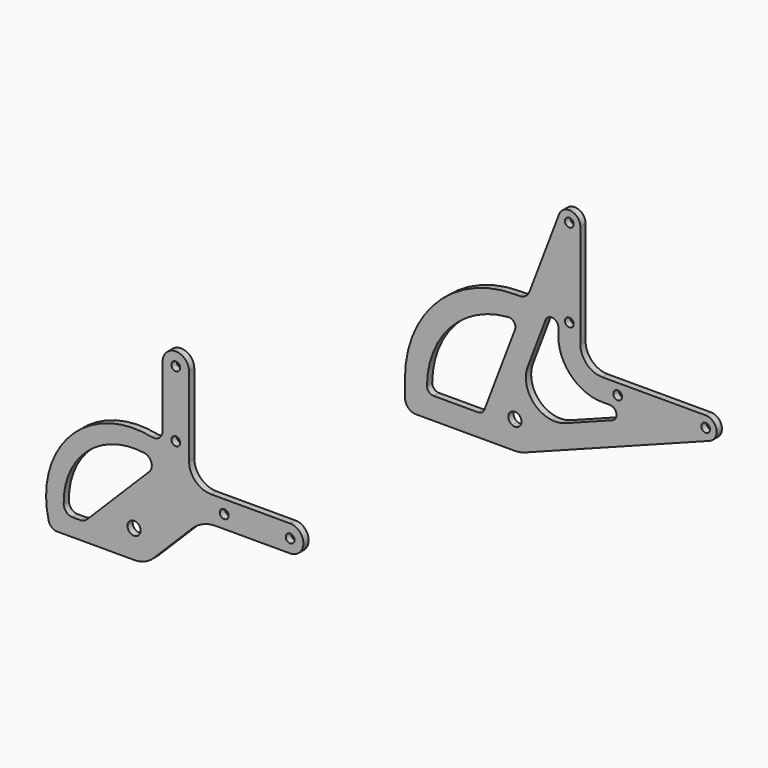
from build123d import *

# Parameters (mm, degrees)
F0_R     = 2
F1_DEPTH = 3
F2_R     = 3
F2_R_2   = 2
F3_DEPTH = 3


with BuildPart() as f1:
    # F0 (on Front) → F1 (new body)
    with BuildSketch(Plane.XZ):
        with BuildLine():
            Line((1.9775541105, 50), (0, 50))
            ThreePointArc((0, 50), (-35.3553390593, 35.3553390593), (-50, 0))
            Line((-50, 0), (-50, -7.7))
            ThreePointArc((-50, -7.7), (-48.5355339059, -11.2355339059), (-45, -12.7))
            Line((-45, -12.7), (0, -12.7))
            ThreePointArc((0, -12.7), (2.2947246058, -12.490966295), (4.5139098752, -11.8707462966))
            Line((4.5139098752, -11.8707462966), (88.5258672136, 20.0752151775))
            ThreePointArc((88.5258672136, 20.0752151775), (91.6664406073, 25.6521722257), (86.7487373415, 29.7487373415))
            Line((86.7487373415, 29.7487373415), (39.7487373415, 29.7487373415))
            ThreePointArc((39.7487373415, 29.7487373415), (32.6776695297, 32.6776695297), (29.7487373415, 39.7487373415))
            Line((29.7487373415, 39.7487373415), (29.7487373415, 86.7487373415))
            ThreePointArc((29.7487373415, 86.7487373415), (25.6521722257, 91.6664406073), (20.0752151775, 88.5258672136))
            Line((20.0752151775, 88.5258672136), (6.6510762745, 53.2228701279))
            ThreePointArc((6.6510762745, 53.2228701279), (4.8160705046, 50.88383374), (1.9775541105, 50))
        make_face()
        with BuildLine():
            ThreePointArc((-1.3076696831, -2.7), (-1.5932656638, 2.5419489618), (3, 0))
            ThreePointArc((3, 0), (1.5932656638, -2.5419489618), (-1.3076696831, -2.7))
        make_face(mode=Mode.SUBTRACT)
        with BuildLine():
            Line((-16.6826770692, -2.7), (-36.9987837638, -2.7))
            ThreePointArc((-36.9987837638, -2.7), (-39.1286866927, -1.8127028929), (-39.99868515, 0.3243243243))
            ThreePointArc((-39.99868515, 0.3243243243), (-29.2121630402, 27.3248884813), (-2.9910381263, 39.8880143768))
            ThreePointArc((-2.9910381263, 39.8880143768), (-0.3624601289, 38.690732466), (0.0374030316, 35.8301353753))
            Line((0.0374030316, 35.8301353753), (-13.8785637708, -0.7662779233))
            ThreePointArc((-13.8785637708, -0.7662779233), (-14.9795672328, -2.169699756), (-16.6826770692, -2.7))
        make_face(mode=Mode.SUBTRACT)
        with BuildLine():
            Line((44.2682950578, 13.9446240431), (23.0257917018, 5.8670572857))
            ThreePointArc((23.0257917018, 5.8670572857), (8.8941060522, 8.8941060522), (5.8670572857, 23.0257917018))
            Line((5.8670572857, 23.0257917018), (13.9446240431, 44.2682950578))
            ThreePointArc((13.9446240431, 44.2682950578), (17.290798272, 46.152639094), (19.7487373415, 43.2020171345))
            Line((19.7487373415, 43.2020171345), (19.7487373415, 39.7487373415))
            ThreePointArc((19.7487373415, 39.7487373415), (25.6066017178, 25.6066017178), (39.7487373415, 19.7487373415))
            Line((39.7487373415, 19.7487373415), (43.2020171345, 19.7487373415))
            ThreePointArc((43.2020171345, 19.7487373415), (46.152639094, 17.290798272), (44.2682950578, 13.9446240431))
        make_face(mode=Mode.SUBTRACT)
        with Locations((46.7487373415, 24.7487373415)):
            Circle(F0_R, mode=Mode.SUBTRACT)
        with Locations((86.7487373415, 24.7487373415)):
            Circle(F0_R, mode=Mode.SUBTRACT)
        with Locations((24.7487373415, 46.7487373415)):
            Circle(F0_R, mode=Mode.SUBTRACT)
        with Locations((24.7487373415, 86.7487373415)):
            Circle(F0_R, mode=Mode.SUBTRACT)
    extrude(amount=F1_DEPTH)


with BuildPart() as f3:
    # F2 (on Front) → F3 (new body)
    with BuildSketch(Plane.XZ):
        with BuildLine():
            ThreePointArc((-160.2050807569, -56.9302890653), (-161.6824558613, -60.0345383524), (-165.0232625751, -60.8457173321))
            ThreePointArc((-165.0232625751, -60.8457173321), (-202.0227771946, -72.2594093065), (-212.0194538106, -109.6666666667))
            ThreePointArc((-212.0194538106, -109.6666666667), (-210.6010769322, -111.8517191076), (-208.1380165053, -112.7))
            Line((-208.1380165053, -112.7), (-173.2050807569, -112.7))
            ThreePointArc((-173.2050807569, -112.7), (-168.3450011659, -111.7332700629), (-164.2248246358, -108.9802561211))
            Line((-164.2248246358, -108.9802561211), (-146.637966797, -91.3933982822))
            ThreePointArc((-146.637966797, -91.3933982822), (-141.7716165646, -88.1418070123), (-136.0313650792, -87))
            Line((-136.0313650792, -87), (-102.2050807569, -87))
            ThreePointArc((-102.2050807569, -87), (-96.2050807569, -81), (-102.2050807569, -75))
            Line((-102.2050807569, -75), (-138.2050807569, -75))
            ThreePointArc((-138.2050807569, -75), (-145.2761485688, -72.0710678119), (-148.2050807569, -65))
            Line((-148.2050807569, -65), (-148.2050807569, -29))
            ThreePointArc((-148.2050807569, -29), (-154.2050807569, -23), (-160.2050807569, -29))
            Line((-160.2050807569, -29), (-160.2050807569, -56.9302890653))
        make_face()
        with Locations((-173.2050807569, -100)):
            Circle(F2_R, mode=Mode.SUBTRACT)
        with BuildLine():
            ThreePointArc((-168.5384569133, -68.342100166), (-165.3242423655, -71.0428859963), (-166.293357769, -75.12776477))
            Line((-166.293357769, -75.12776477), (-194.6940201238, -103.5284271247))
            ThreePointArc((-194.6940201238, -103.5284271247), (-195.9917135191, -104.39551813), (-197.5224472485, -104.7))
            Line((-197.5224472485, -104.7), (-201.1963293893, -104.7))
            ThreePointArc((-201.1963293893, -104.7), (-203.989177398, -103.5635642127), (-205.1950791939, -100.8))
            ThreePointArc((-205.1950791939, -100.8), (-194.4187677349, -76.0421310464), (-168.5384569133, -68.342100166))
        make_face(mode=Mode.SUBTRACT)
        with Locations((-132.2050807569, -81)):
            Circle(F2_R_2, mode=Mode.SUBTRACT)
        with Locations((-102.2050807569, -81)):
            Circle(F2_R_2, mode=Mode.SUBTRACT)
        with Locations((-154.2050807569, -59)):
            Circle(F2_R_2, mode=Mode.SUBTRACT)
        with Locations((-154.2050807569, -29)):
            Circle(F2_R_2, mode=Mode.SUBTRACT)
    extrude(amount=F3_DEPTH)


solid = Compound([f1.part, f3.part])
